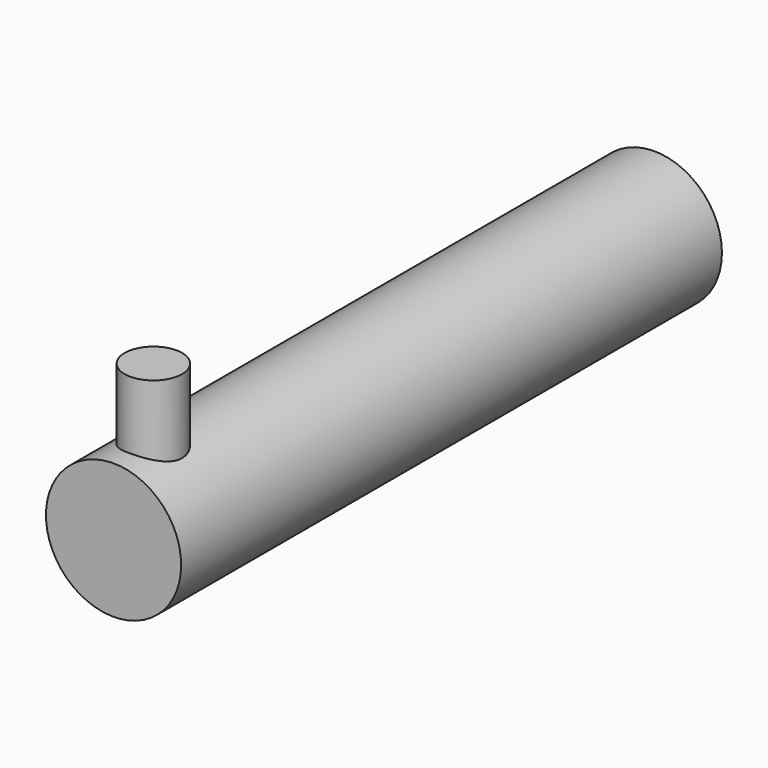
from build123d import *

# Parameters (mm, degrees)
F0_R     = 5
F1_DEPTH = 50
F2_R     = 2.123858
F3_DEPTH = 10


with BuildPart() as f1:
    # F0 (on Front) → F1 (new body)
    with BuildSketch(Plane.XZ):
        Circle(F0_R)
    extrude(amount=F1_DEPTH)

    # F2 (on Top) → F3 (join)
    with BuildSketch(Plane.XY):
        with Locations((0, -46.318982)):
            Circle(F2_R)
    extrude(amount=F3_DEPTH)


solid = f1.part
